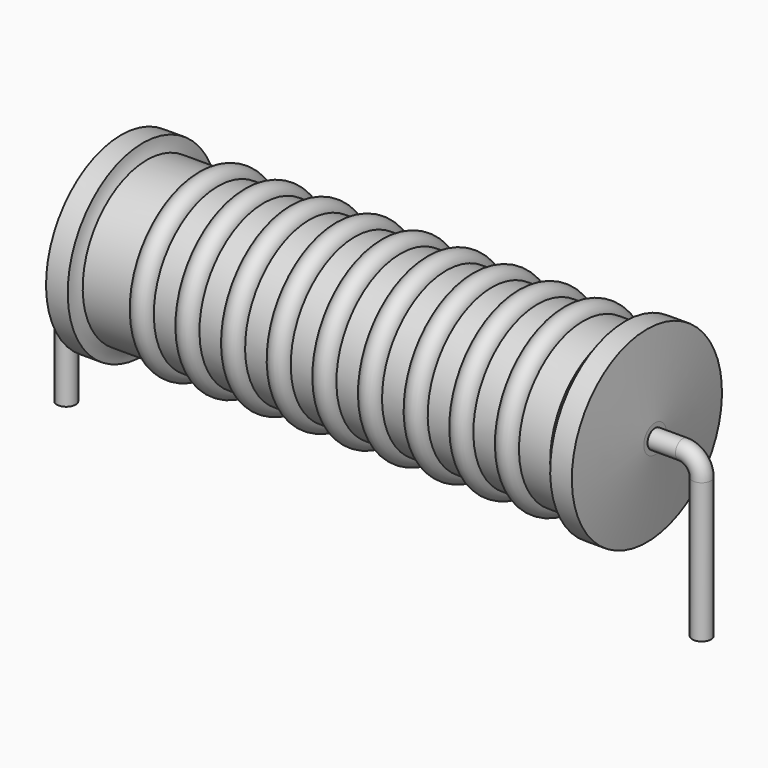
from build123d import *

# Parameters (mm, degrees)
SKETCH_R = 0.45


with BuildPart() as sweep_body:
    # Sweep: sweep along a path in Sketch001
    with BuildLine(Plane.XZ) as sweep_path:
        Line((0, -3), (0, 3.7))
        ThreePointArc((0, 3.7), (0.263601, 4.336393), (0.899991, 4.6))
        Line((0.899991, 4.6), (29.58, 4.6))
        ThreePointArc((29.58, 4.6), (30.216396, 4.336396), (30.48, 3.7))
        Line((30.48, 3.7), (30.48, -3))
    # Sketch → Sweep (sweep)
    with BuildSketch(Plane.XY.offset(-2)):
        Circle(SKETCH_R)
    sweep(path=sweep_path.line)


with BuildPart() as revolution:
    # Sketch002 → Revolution (revolve)
    with BuildSketch(Plane.XZ):
        with BuildLine():
            Line((2.63, 9.1), (3.67, 9.1))
            ThreePointArc((3.67, 9.1), (3.731746, 8.763652), (3.868, 8.45))
            Line((3.868, 8.45), (26.29, 8.45))
            ThreePointArc((26.29, 8.45), (26.583495, 8.748204), (26.81, 9.1))
            Line((26.81, 9.1), (27.85, 9.1))
            ThreePointArc((28.24, 5.275), (28.052589, 7.188274), (27.85, 9.1))
            Line((28.24, 4.6), (28.24, 5.275))
            Line((2.24, 4.6), (28.24, 4.6))
            Line((2.24, 4.6), (2.24, 5.275))
            ThreePointArc((2.63, 9.1), (2.427411, 7.188274), (2.24, 5.275))
        make_face()
    revolve(axis=Axis((2.24, 0, 4.6), (1, 0, 0)))


with BuildPart() as obj1:
    # Sketch003 → Revolution001 (revolve)
    with BuildSketch(Plane.XZ):
        with BuildLine():
            ThreePointArc((7.289474, 8.346), (6.742105, 8.893368), (6.194737, 8.346))
            Line((5.1, 8.346), (6.194737, 8.346))
            Line((5.1, 8.346), (5.1, 7.446))
            Line((5.1, 7.446), (25.9, 7.446))
            Line((25.9, 7.446), (25.9, 8.346))
            Line((24.805263, 8.346), (25.9, 8.346))
            ThreePointArc((24.805263, 8.346), (24.257895, 8.893368), (23.710526, 8.346))
            Line((22.615789, 8.346), (23.710526, 8.346))
            ThreePointArc((22.615789, 8.346), (22.068421, 8.893368), (21.521053, 8.346))
            Line((20.426316, 8.346), (21.521053, 8.346))
            ThreePointArc((20.426316, 8.346), (19.878947, 8.893368), (19.331579, 8.346))
            Line((18.236842, 8.346), (19.331579, 8.346))
            ThreePointArc((18.236842, 8.346), (17.689474, 8.893368), (17.142105, 8.346))
            Line((16.047368, 8.346), (17.142105, 8.346))
            ThreePointArc((16.047368, 8.346), (15.5, 8.893368), (14.952632, 8.346))
            Line((13.857895, 8.346), (14.952632, 8.346))
            ThreePointArc((13.857895, 8.346), (13.310526, 8.893368), (12.763158, 8.346))
            Line((11.668421, 8.346), (12.763158, 8.346))
            ThreePointArc((11.668421, 8.346), (11.121053, 8.893368), (10.573684, 8.346))
            Line((9.478947, 8.346), (10.573684, 8.346))
            ThreePointArc((9.478947, 8.346), (8.931579, 8.893368), (8.384211, 8.346))
            Line((7.289474, 8.346), (8.384211, 8.346))
        make_face()
    revolve(axis=Axis((2.89, 0, 4.6), (1, 0, 0)))

    # obj1: union Sweep body, Revolution
    add(sweep_body.part)
    add(revolution.part)


solid = obj1.part
